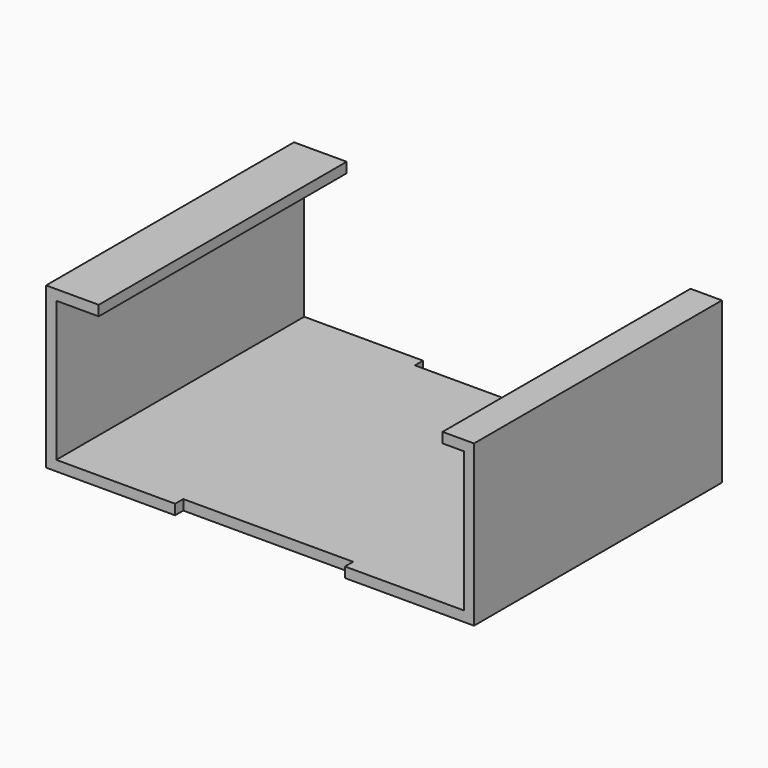
from build123d import *

# Parameters (mm, degrees)
F1_DEPTH = 1.2
F0_W     = 1.2
F0_H     = 36.5
F2_DEPTH = 17.7
F3_W     = 1.2
F3_H     = 36.5
F3_W_2   = 5
F3_W_3   = 3.7
F4_DEPTH = 1.2


with BuildPart() as f1:
    # F0 (on Top) → F1 (new body)
    with BuildSketch(Plane.XY):
        Polygon((10, -18.25), (24, -18.25), (24, 18.25), (10, 18.25), (10, 17.05), (-10, 17.05), (-10, 18.25), (-24, 18.25), (-24, -18.25), (-10, -18.25), (-10, -17.05), (10, -17.05), align=None)
    extrude(amount=F1_DEPTH)

    # F0 (on Top) → F2 (join)
    with BuildSketch(Plane.XY):
        with Locations((-24.6, 0)):
            Rectangle(F0_W, F0_H)
        with Locations((24.6, 0)):
            Rectangle(F0_W, F0_H)
    extrude(amount=F2_DEPTH)

    # F3 (on face) → F4 (join)
    with BuildSketch(Plane.XY.offset(17.7)):
        with Locations((-24.6, 0)):
            Rectangle(F3_W, F3_H)
        with Locations((-21.5, 0)):
            Rectangle(F3_W_2, F3_H)
        with Locations((23.35, 0)):
            Rectangle(F3_W_3, F3_H)
    extrude(amount=F4_DEPTH)


solid = f1.part
